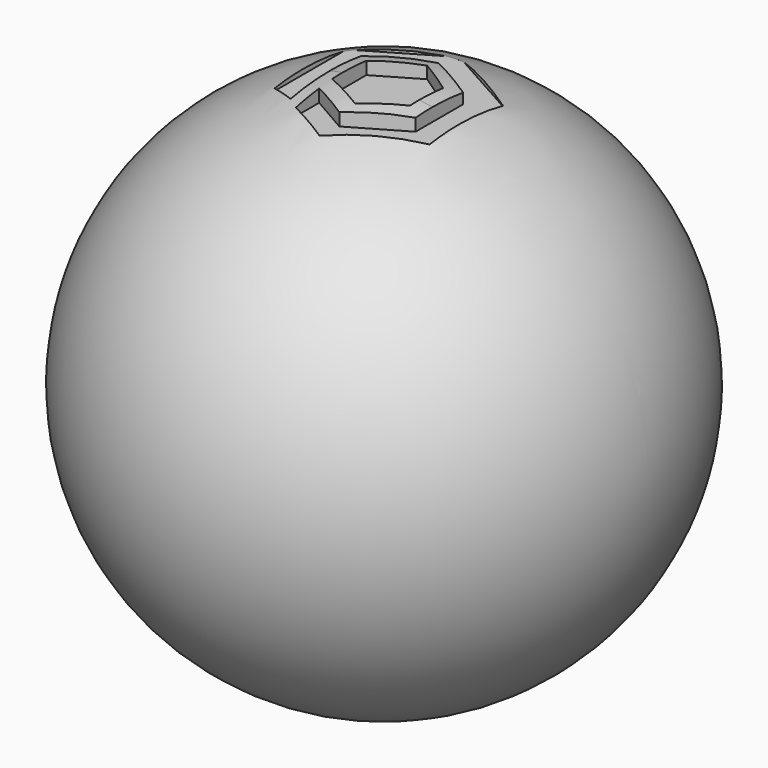
from build123d import *

# Parameters (mm, degrees)
F4_START = 28
F4_DEPTH = 22
F6_START = -28
F5_W     = 60
F5_H     = 60
F6_DEPTH = 72


with BuildPart() as f2:
    # F1 (on Front) → F2 (revolve)
    with BuildSketch(Plane.XZ):
        with BuildLine():
            Line((-30, 0), (30, 0))
            ThreePointArc((30, 0), (0, 30), (-30, 0))
        make_face()
    revolve(axis=Axis((0, 0, 0), (1, 0, 0)))

    # F3 (on Top) → F4 (cut)
    with BuildSketch(Plane.XY.offset(F4_START)):
        Polygon((-9.1697992757, 6.1277179047), (-9.1697992757, -4.0975827724), (-6.1292964965, -5.6231399067), (-6.1292964965, 4.3796850368), (0, 7.6826182194), (5.4949265905, 4.3796850368), (5.4949265905, -2.3808549158), (-0.4257261462, -5.8186533861), (-4.6656387858, -3.3751989249), (-4.6656387858, -6.7009669729), (0, -9.1569181532), (8.5351010785, -4.193849396), (8.5351010785, 6.2439450994), (-0.4188895691, 11.2581793219), align=None)
        Polygon((-4.7212797217, 3.3881671261), (-4.7212797217, -1.4694901183), (0, -4.0975827724), (4.0084240027, -1.328688697), (4.0084240027, 3.3881671261), (0, 6.1423662119), align=None)
    extrude(amount=F4_DEPTH, mode=Mode.SUBTRACT)

    # F5 (on Top) → F6 (cut)
    with BuildSketch(Plane.XY.offset(F6_START)):
        with Locations((1.9770637155, -0.5929265171)):
            Rectangle(F5_W, F5_H)
    extrude(amount=-F6_DEPTH, mode=Mode.SUBTRACT)


solid = f2.part
